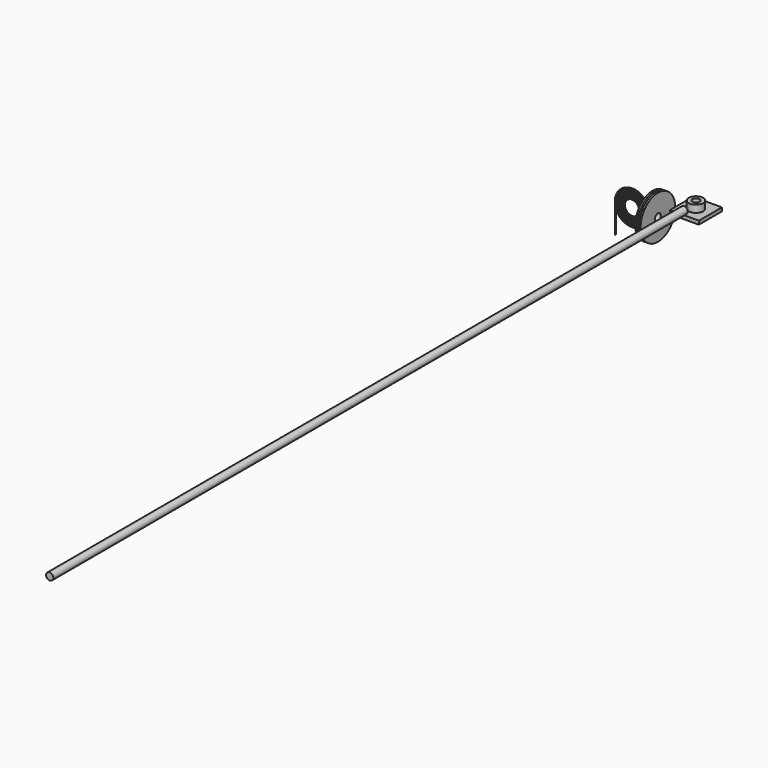
from build123d import *

# Parameters (mm, degrees)
F5_R      = 0.79375
F7_R      = 6.35
F8_DEPTH  = 1397
F9_W      = 50.8
F9_H      = 50.8
F10_DEPTH = 6.35
F11_R     = 12.7
F11_R_2   = 6.35
F12_DEPTH = 12.7


with BuildPart() as f1:
    # F0 (on Front) → F1 (revolve)
    with BuildSketch(Plane.XZ):
        Polygon((-4.7625, 38.1), (-4.7625, 6.35), (0, 6.35), (0, 12.7), (-1.5875, 12.7), (-1.5875, 38.1), align=None)
        Polygon((0, 12.7), (0, 6.35), (4.7625, 6.35), (4.7625, 38.1), (1.5875, 38.1), (1.5875, 12.7), align=None)
    revolve(axis=Axis((-34.4531462298, 0, 0), (-1, 0, 0)))


with BuildPart() as f4:
    # F4: sweep along a path in F2
    with BuildLine(Plane.XZ) as f4_path:
        CenterArc((-40.8785529435, 0), 12.7, 0, 360)
    # F3 (on Top) → F4 (sweep)
    with BuildSketch(Plane.XY):
        with BuildLine():
            Line((-12.3035529435, 0), (-10.7160529435, 0))
            ThreePointArc((-10.7160529435, 0), (-11.5098029435, 0.79375), (-12.3035529435, 0))
        make_face()
        with BuildLine():
            Line((-13.8910529435, 0), (-12.3035529435, 0))
            ThreePointArc((-12.3035529435, 0), (-13.0973029435, 0.79375), (-13.8910529435, 0))
        make_face()
        with BuildLine():
            Line((-15.4785529435, 0), (-13.8910529435, 0))
            ThreePointArc((-13.8910529435, 0), (-14.6848029435, 0.79375), (-15.4785529435, 0))
        make_face()
        with BuildLine():
            Line((-17.0660529435, 0), (-15.4785529435, 0))
            ThreePointArc((-15.4785529435, 0), (-16.2723029435, 0.79375), (-17.0660529435, 0))
        make_face()
        with BuildLine():
            Line((-18.6535529435, 0), (-17.0660529435, 0))
            ThreePointArc((-17.0660529435, 0), (-17.8598029435, 0.79375), (-18.6535529435, 0))
        make_face()
        with BuildLine():
            Line((-20.2410529435, 0), (-18.6535529435, 0))
            ThreePointArc((-18.6535529435, 0), (-19.4473029435, 0.79375), (-20.2410529435, 0))
        make_face()
        with BuildLine():
            Line((-21.8285529435, 0), (-20.2410529435, 0))
            ThreePointArc((-20.2410529435, 0), (-21.0348029435, 0.79375), (-21.8285529435, 0))
        make_face()
        with BuildLine():
            Line((-23.4160529435, 0), (-21.8285529435, 0))
            ThreePointArc((-21.8285529435, 0), (-22.6223029435, 0.79375), (-23.4160529435, 0))
        make_face()
        with BuildLine():
            Line((-25.0035529435, 0), (-23.4160529435, 0))
            ThreePointArc((-23.4160529435, 0), (-24.2098029435, 0.79375), (-25.0035529435, 0))
        make_face()
        with BuildLine():
            Line((-26.5910529435, 0), (-25.0035529435, 0))
            ThreePointArc((-25.0035529435, 0), (-25.7973029435, 0.79375), (-26.5910529435, 0))
        make_face()
        with BuildLine():
            Line((-28.1785529435, 0), (-26.5910529435, 0))
            ThreePointArc((-26.5910529435, 0), (-27.3848029435, 0.79375), (-28.1785529435, 0))
        make_face()
        with BuildLine():
            ThreePointArc((-12.3035529435, 0), (-11.5098029435, -0.79375), (-10.7160529435, 0))
            Line((-10.7160529435, 0), (-12.3035529435, 0))
        make_face()
        with BuildLine():
            ThreePointArc((-13.8910529435, 0), (-13.0973029435, -0.79375), (-12.3035529435, 0))
            Line((-12.3035529435, 0), (-13.8910529435, 0))
        make_face()
        with BuildLine():
            ThreePointArc((-15.4785529435, 0), (-14.6848029435, -0.79375), (-13.8910529435, 0))
            Line((-13.8910529435, 0), (-15.4785529435, 0))
        make_face()
        with BuildLine():
            ThreePointArc((-17.0660529435, 0), (-16.2723029435, -0.79375), (-15.4785529435, 0))
            Line((-15.4785529435, 0), (-17.0660529435, 0))
        make_face()
        with BuildLine():
            ThreePointArc((-18.6535529435, 0), (-17.8598029435, -0.79375), (-17.0660529435, 0))
            Line((-17.0660529435, 0), (-18.6535529435, 0))
        make_face()
        with BuildLine():
            ThreePointArc((-20.2410529435, 0), (-19.4473029435, -0.79375), (-18.6535529435, 0))
            Line((-18.6535529435, 0), (-20.2410529435, 0))
        make_face()
        with BuildLine():
            ThreePointArc((-21.8285529435, 0), (-21.0348029435, -0.79375), (-20.2410529435, 0))
            Line((-20.2410529435, 0), (-21.8285529435, 0))
        make_face()
        with BuildLine():
            ThreePointArc((-23.4160529435, 0), (-22.6223029435, -0.79375), (-21.8285529435, 0))
            Line((-21.8285529435, 0), (-23.4160529435, 0))
        make_face()
        with BuildLine():
            ThreePointArc((-25.0035529435, 0), (-24.2098029435, -0.79375), (-23.4160529435, 0))
            Line((-23.4160529435, 0), (-25.0035529435, 0))
        make_face()
        with BuildLine():
            ThreePointArc((-26.5910529435, 0), (-25.7973029435, -0.79375), (-25.0035529435, 0))
            Line((-25.0035529435, 0), (-26.5910529435, 0))
        make_face()
        with BuildLine():
            ThreePointArc((-28.1785529435, 0), (-27.3848029435, -0.79375), (-26.5910529435, 0))
            Line((-26.5910529435, 0), (-28.1785529435, 0))
        make_face()
    sweep(path=f4_path.line)

    # F6: sweep along a path in F2
    with BuildLine(Plane.XZ) as f6_path:
        Line((-69.4535529435, 0), (-69.4535529435, -51.0526560247))
    # F5 (on Top) → F6 (sweep)
    with BuildSketch(Plane.XY):
        with Locations((-70.2473029435, 0)):
            Circle(F5_R)
    sweep(path=f6_path.line)


with BuildPart() as f8:
    # F7 (on Front) → F8 (new body)
    with BuildSketch(Plane.XZ):
        with Locations((51.0211512446, 26.0713919997)):
            Circle(F7_R)
    extrude(amount=F8_DEPTH)


with BuildPart() as f10:
    # F9 (on Top) → F10 (new body)
    with BuildSketch(Plane.XY):
        with Locations((37.1560424894, 43.2578018067)):
            Rectangle(F9_W, F9_H)
    extrude(amount=F10_DEPTH)

    # F11 (on face) → F12 (join)
    with BuildSketch(Plane.XY.offset(6.35)):
        with Locations((37.1560424894, 43.2578018067)):
            Circle(F11_R)
        with Locations((37.1560424894, 43.2578018067)):
            Circle(F11_R_2, mode=Mode.SUBTRACT)
    extrude(amount=F12_DEPTH)


solid = Compound([f1.part, f4.part, f8.part, f10.part])
